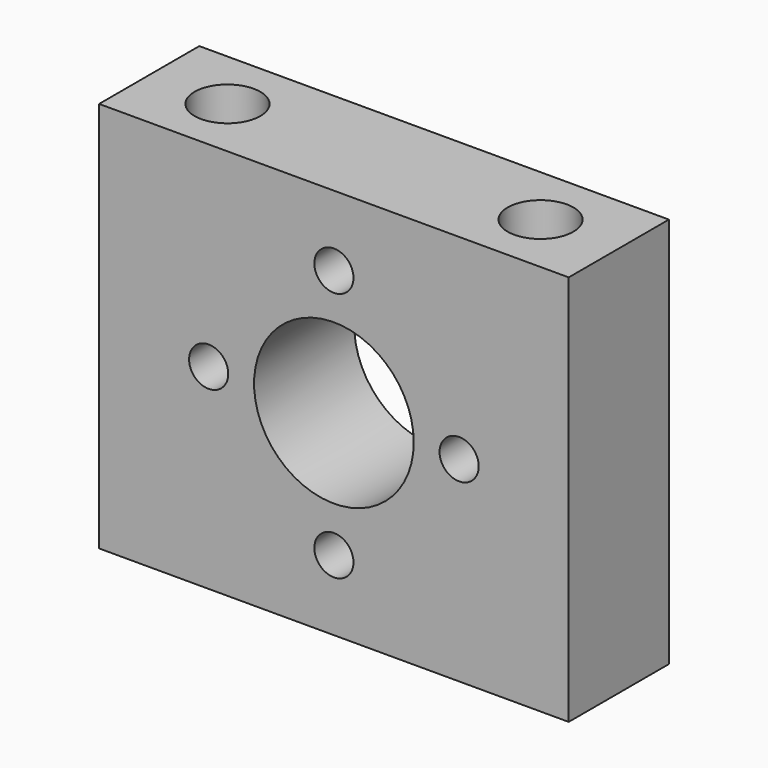
from build123d import *

# Parameters (mm, degrees)
F0_R     = 5.1
F1_DEPTH = 8
F3_D     = 2.5
F4_D     = 4.2
F4_DEPTH = 10.6
F4_TIP   = 1.2618073


with BuildPart() as f1:
    # F0 (on Front) → F1 (new body)
    with BuildSketch(Plane.XZ):
        with BuildLine():
            ThreePointArc((-7.80859375, 1.7395009766), (-5.6568542495, 5.6568542495), (-1.7395009766, 7.80859375))
            ThreePointArc((-1.7395009766, 7.80859375), (-1.3033535471, 9.1678054338), (0, 9.75))
            Line((0, 9.75), (0, 12.5))
            Line((0, 12.5), (-15, 12.5))
            Line((-15, 12.5), (-15, -12.5))
            Line((-15, -12.5), (0, -12.5))
            Line((0, -12.5), (0, -9.75))
            ThreePointArc((0, -9.75), (-1.3033535471, -9.1678054338), (-1.7395009766, -7.80859375))
            ThreePointArc((-1.7395009766, -7.80859375), (-5.6568542495, -5.6568542495), (-7.80859375, -1.7395009766))
            ThreePointArc((-7.80859375, -1.7395009766), (-9.75, 0), (-7.80859375, 1.7395009766))
        make_face()
        with BuildLine():
            ThreePointArc((1.7395009766, 7.80859375), (5.6568542495, 5.6568542495), (7.80859375, 1.7395009766))
            ThreePointArc((7.80859375, 1.7395009766), (9.1678054338, 1.3033535471), (9.75, 0))
            ThreePointArc((9.75, 0), (9.1678054338, -1.3033535471), (7.80859375, -1.7395009766))
            ThreePointArc((7.80859375, -1.7395009766), (5.6568542495, -5.6568542495), (1.7395009766, -7.80859375))
            ThreePointArc((1.7395009766, -7.80859375), (1.7473732728, -7.9041530099), (1.75, -8))
            ThreePointArc((1.75, -8), (1.2374368671, -9.2374368671), (0, -9.75))
            Line((0, -9.75), (0, -12.5))
            Line((0, -12.5), (15, -12.5))
            Line((15, -12.5), (15, 12.5))
            Line((15, 12.5), (0, 12.5))
            Line((0, 12.5), (0, 9.75))
            ThreePointArc((0, 9.75), (1.2374368671, 9.2374368671), (1.75, 8))
            ThreePointArc((1.75, 8), (1.7473732728, 7.9041530099), (1.7395009766, 7.80859375))
        make_face()
        with BuildLine():
            ThreePointArc((7.80859375, -1.7395009766), (6.25, 0), (7.80859375, 1.7395009766))
            ThreePointArc((7.80859375, 1.7395009766), (5.6568542495, 5.6568542495), (1.7395009766, 7.80859375))
            ThreePointArc((1.7395009766, 7.80859375), (0, 6.25), (-1.7395009766, 7.80859375))
            ThreePointArc((-1.7395009766, 7.80859375), (-5.6568542495, 5.6568542495), (-7.80859375, 1.7395009766))
            ThreePointArc((-7.80859375, 1.7395009766), (-6.6966464529, 1.1678054338), (-6.25, 0))
            ThreePointArc((-6.25, 0), (-6.6966464529, -1.1678054338), (-7.80859375, -1.7395009766))
            ThreePointArc((-7.80859375, -1.7395009766), (-5.6568542495, -5.6568542495), (-1.7395009766, -7.80859375))
            ThreePointArc((-1.7395009766, -7.80859375), (0, -6.25), (1.7395009766, -7.80859375))
            ThreePointArc((1.7395009766, -7.80859375), (5.6568542495, -5.6568542495), (7.80859375, -1.7395009766))
        make_face()
        Circle(F0_R, mode=Mode.SUBTRACT)
        with BuildLine():
            ThreePointArc((-1.7395009766, 7.80859375), (0, 8), (1.7395009766, 7.80859375))
            ThreePointArc((1.7395009766, 7.80859375), (1.7473732728, 7.9041530099), (1.75, 8))
            ThreePointArc((1.75, 8), (1.2374368671, 9.2374368671), (0, 9.75))
            ThreePointArc((0, 9.75), (-1.3033535471, 9.1678054338), (-1.7395009766, 7.80859375))
        make_face()
        with BuildLine():
            ThreePointArc((-7.80859375, -1.7395009766), (-8, 0), (-7.80859375, 1.7395009766))
            ThreePointArc((-7.80859375, 1.7395009766), (-9.75, 0), (-7.80859375, -1.7395009766))
        make_face()
        with BuildLine():
            ThreePointArc((-6.25, 0), (-6.6966464529, 1.1678054338), (-7.80859375, 1.7395009766))
            ThreePointArc((-7.80859375, 1.7395009766), (-8, 0), (-7.80859375, -1.7395009766))
            ThreePointArc((-7.80859375, -1.7395009766), (-6.6966464529, -1.1678054338), (-6.25, 0))
        make_face()
        with BuildLine():
            ThreePointArc((7.80859375, 1.7395009766), (7.9520044643, 0.875), (8, 0))
            ThreePointArc((8, 0), (7.9520044643, -0.875), (7.80859375, -1.7395009766))
            ThreePointArc((7.80859375, -1.7395009766), (9.1678054338, -1.3033535471), (9.75, 0))
            ThreePointArc((9.75, 0), (9.1678054338, 1.3033535471), (7.80859375, 1.7395009766))
        make_face()
        with BuildLine():
            ThreePointArc((7.80859375, -1.7395009766), (7.9520044643, -0.875), (8, 0))
            ThreePointArc((8, 0), (7.9520044643, 0.875), (7.80859375, 1.7395009766))
            ThreePointArc((7.80859375, 1.7395009766), (6.25, 0), (7.80859375, -1.7395009766))
        make_face()
        with BuildLine():
            ThreePointArc((-1.7395009766, -7.80859375), (0, -8), (1.7395009766, -7.80859375))
            ThreePointArc((1.7395009766, -7.80859375), (0, -6.25), (-1.7395009766, -7.80859375))
        make_face()
        with BuildLine():
            ThreePointArc((1.75, -8), (1.7473732728, -7.9041530099), (1.7395009766, -7.80859375))
            ThreePointArc((1.7395009766, -7.80859375), (0, -8), (-1.7395009766, -7.80859375))
            ThreePointArc((-1.7395009766, -7.80859375), (-1.3033535471, -9.1678054338), (0, -9.75))
            ThreePointArc((0, -9.75), (1.2374368671, -9.2374368671), (1.75, -8))
        make_face()
        with BuildLine():
            ThreePointArc((-1.7395009766, 7.80859375), (0, 6.25), (1.7395009766, 7.80859375))
            ThreePointArc((1.7395009766, 7.80859375), (0, 8), (-1.7395009766, 7.80859375))
        make_face()
    extrude(amount=F1_DEPTH)

    # F3 (through all)
    with Locations(Plane(origin=(0, 0, 0), x_dir=(1, 0, 0), z_dir=(0, 1, 0))):
        with Locations((0, -8), (8, 0), (-8, 0), (0, 8)):
            Hole(F3_D / 2)

    # F4
    with Locations(Plane.XY.offset(12.5)):
        with Locations((-10, -4), (10, -4)):
            Hole(F4_D / 2, depth=F4_DEPTH)
            with Locations((0, 0, -(F4_DEPTH + F4_TIP / 2))):  # 118° drill point
                Cone(0, F4_D / 2, F4_TIP, mode=Mode.SUBTRACT)


solid = f1.part
